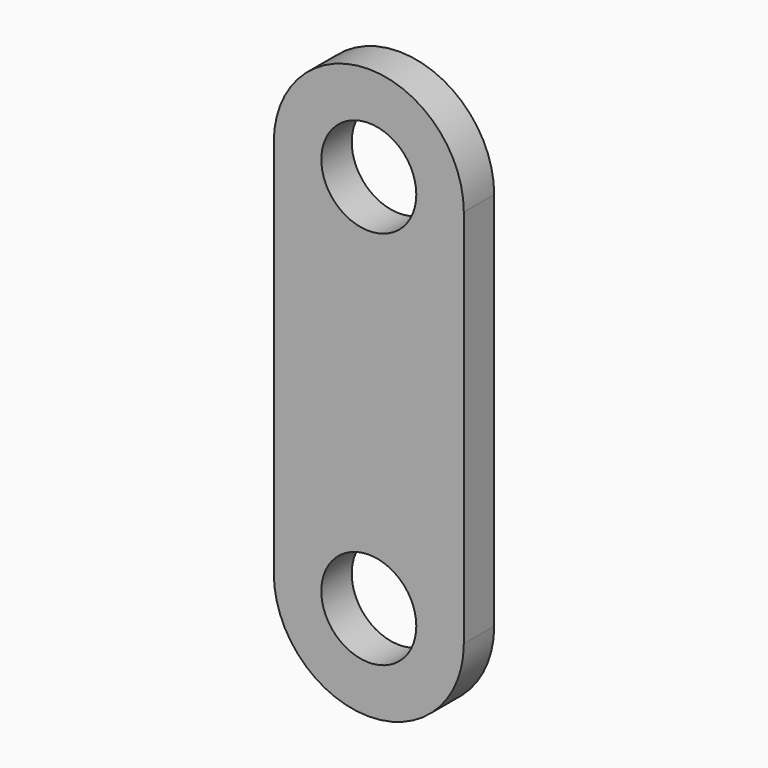
from build123d import *

# Parameters (mm, degrees)
F0_R     = 5
F1_DEPTH = 4


with BuildPart() as f1:
    # F0 (on Front) → F1 (new body)
    with BuildSketch(Plane.XZ):
        with BuildLine():
            ThreePointArc((-10, 0), (0, -10), (10, 0))
            ThreePointArc((10, 0), (0, 10), (-10, 0))
        make_face()
        Circle(F0_R, mode=Mode.SUBTRACT)
        with BuildLine():
            Line((10, -40), (10, 0))
            ThreePointArc((10, 0), (0, -10), (-10, 0))
            Line((-10, 0), (-10, -40))
            ThreePointArc((-10, -40), (0, -30), (10, -40))
        make_face()
        with BuildLine():
            ThreePointArc((-10, -40), (0, -50), (10, -40))
            ThreePointArc((10, -40), (0, -30), (-10, -40))
        make_face()
        with Locations((0, -40)):
            Circle(F0_R, mode=Mode.SUBTRACT)
    extrude(amount=F1_DEPTH)


solid = f1.part
